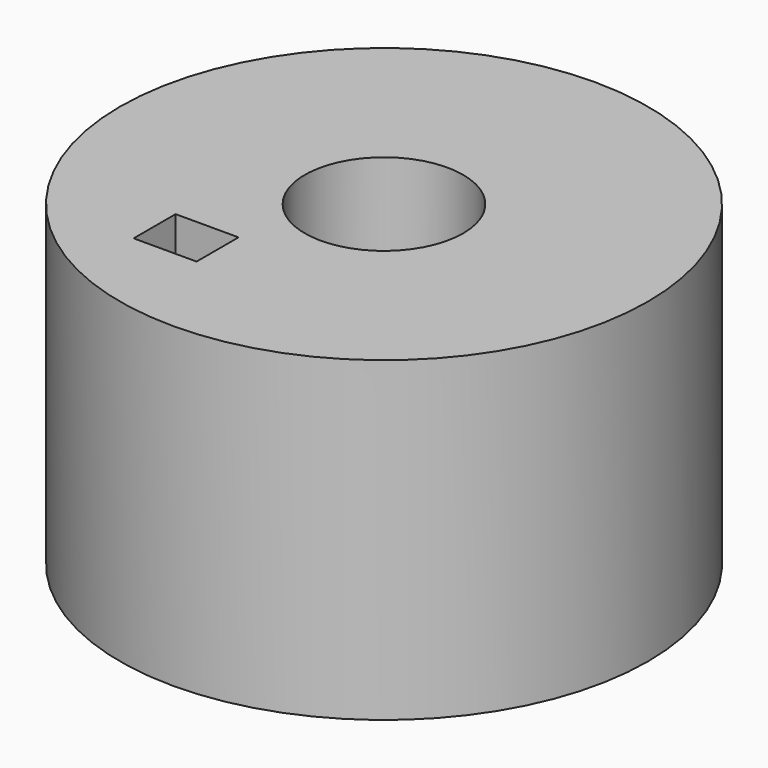
from build123d import *

# Parameters (mm, degrees)
F0_R     = 5
F0_W     = 1.191913
F0_H     = 0.993568
F0_R_2   = 1.5
F1_DEPTH = 6


with BuildPart() as f1:
    # F0 (on Top) → F1 (new body)
    with BuildSketch(Plane.XY):
        Circle(F0_R)
        with Locations((-1.610415, -2.673)):
            Rectangle(F0_W, F0_H, mode=Mode.SUBTRACT)
        Circle(F0_R_2, mode=Mode.SUBTRACT)
    extrude(amount=F1_DEPTH)


solid = f1.part
